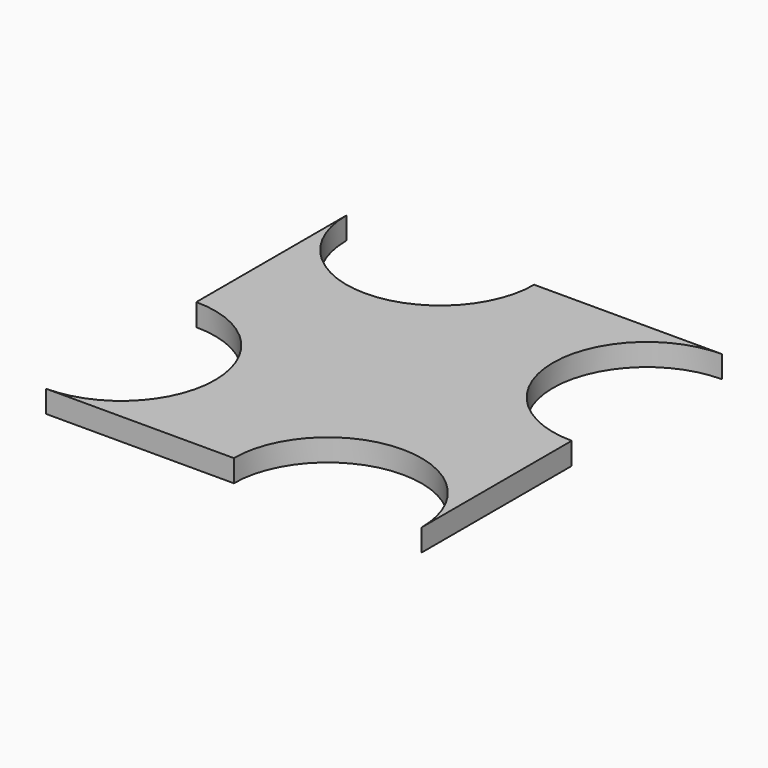
from build123d import *

# Parameters (mm, degrees)
F0_W     = 101.6
F0_H     = 101.6
F1_DEPTH = 6
F3_DEPTH = 6.35


with BuildPart() as f1:
    # F0 (on Top) → F1 (new body)
    with BuildSketch(Plane.XY):
        Rectangle(F0_W, F0_H)
    extrude(amount=F1_DEPTH)

    # F2 (on face) → F3 (cut)
    with BuildSketch(Plane.XY.offset(6)):
        with BuildLine():
            ThreePointArc((-25.4, -25.4), (-32.8394877579, -7.4394877579), (-50.8, 0))
            Line((-50.8, 0), (-50.8, -50.8))
            ThreePointArc((-50.8, -50.8), (-32.8394877579, -43.3605122421), (-25.4, -25.4))
        make_face()
        with BuildLine():
            ThreePointArc((-50.8, 50.8), (-25.4, 25.4), (0, 50.8))
            Line((0, 50.8), (-50.8, 50.8))
        make_face()
        with BuildLine():
            Line((50.8, 0), (50.8, 50.8))
            ThreePointArc((50.8, 50.8), (25.4, 25.4), (50.8, 0))
        make_face()
        with BuildLine():
            Line((0, -50.8), (50.8, -50.8))
            ThreePointArc((50.8, -50.8), (25.4, -25.4), (0, -50.8))
        make_face()
    extrude(amount=-F3_DEPTH, mode=Mode.SUBTRACT)


solid = f1.part
